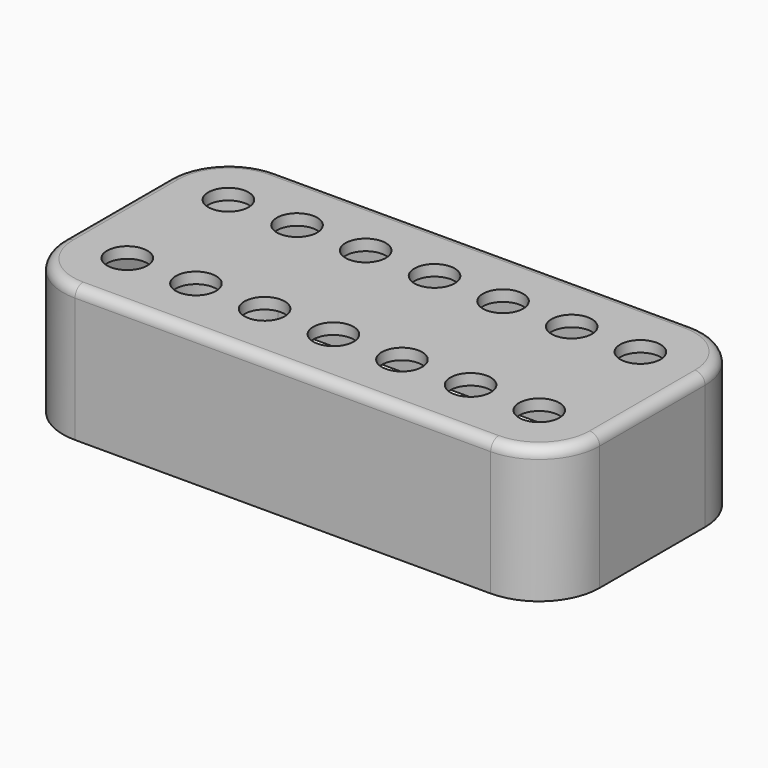
from build123d import *

# Parameters (mm, degrees)
PAD_DEPTH     = 20.07
POCKET_DEPTH  = 18.42
SKETCH002_R   = 3
HOLE_DEPTH    = 25
SKETCH003_R   = 3
HOLE001_DEPTH = 25
SKETCH004_R   = 3
HOLE002_DEPTH = 25
SKETCH005_R   = 3
HOLE003_DEPTH = 25
SKETCH006_R   = 3
HOLE004_DEPTH = 25
SKETCH007_R   = 3
HOLE005_DEPTH = 25
SKETCH008_R   = 3
HOLE006_DEPTH = 25
FILLET_R      = 1.5
SKETCH009_R   = 3
HOLE007_DEPTH = 25
SKETCH010_R   = 3
HOLE008_DEPTH = 25
SKETCH011_R   = 3
HOLE009_DEPTH = 25
SKETCH012_R   = 3
HOLE010_DEPTH = 25
SKETCH013_R   = 3
HOLE011_DEPTH = 25
SKETCH014_R   = 3
HOLE012_DEPTH = 25
SKETCH015_R   = 3
HOLE013_DEPTH = 25


with BuildPart() as part:
    # Sketch → Pad (new body)
    with BuildSketch(Plane.XY):
        with BuildLine():
            Line((26.468666, 48.305671), (88.278666, 48.305671))
            ThreePointArc((97.278666, 39.305671), (94.642627, 45.669632), (88.278666, 48.305671))
            Line((97.278666, 39.305671), (97.278666, 19.715671))
            ThreePointArc((88.278666, 10.715671), (94.642627, 13.351709), (97.278666, 19.715671))
            Line((88.278666, 10.715671), (26.468666, 10.715671))
            ThreePointArc((17.468666, 19.715671), (20.104705, 13.351709), (26.468666, 10.715671))
            Line((17.468666, 19.715671), (17.468666, 39.305671))
            ThreePointArc((26.468666, 48.305671), (20.104705, 45.669632), (17.468666, 39.305671))
        make_face()
    extrude(amount=PAD_DEPTH)

    # Sketch001 (on Face9 of Pad) → Pocket (cut)
    with BuildSketch(Plane(origin=(0, 0, 0), x_dir=(1, 0, 0), z_dir=(0, 0, -1))):
        with BuildLine():
            Line((26.978666, -11.220671), (87.768666, -11.220671))
            ThreePointArc((96.768666, -20.220671), (94.132627, -13.856709), (87.768666, -11.220671))
            Line((96.768666, -20.220671), (96.768666, -38.800671))
            ThreePointArc((87.768666, -47.800671), (94.132627, -45.164632), (96.768666, -38.800671))
            Line((87.768666, -47.800671), (26.978666, -47.800671))
            ThreePointArc((17.978666, -38.800671), (20.614705, -45.164632), (26.978666, -47.800671))
            Line((17.978666, -38.800671), (17.978666, -20.220671))
            ThreePointArc((26.978666, -11.220671), (20.614705, -13.856709), (17.978666, -20.220671))
        make_face()
    extrude(amount=-POCKET_DEPTH, mode=Mode.SUBTRACT)

    # Sketch002 (on Face5 of Pocket) → Hole (cut)
    with BuildSketch(Plane.XY.offset(20.07)):
        with Locations((57.373666, 38.908171)):
            Circle(SKETCH002_R)
    extrude(amount=-HOLE_DEPTH, mode=Mode.SUBTRACT)

    # Sketch003 (on Face5 of Hole) → Hole001 (cut)
    with BuildSketch(Plane.XY.offset(20.07)):
        with Locations((47.135866, 38.908171)):
            Circle(SKETCH003_R)
    extrude(amount=-HOLE001_DEPTH, mode=Mode.SUBTRACT)

    # Sketch004 (on Face5 of Hole001) → Hole002 (cut)
    with BuildSketch(Plane.XY.offset(20.07)):
        with Locations((36.925066, 38.908171)):
            Circle(SKETCH004_R)
    extrude(amount=-HOLE002_DEPTH, mode=Mode.SUBTRACT)

    # Sketch005 (on Face5 of Hole002) → Hole003 (cut)
    with BuildSketch(Plane.XY.offset(20.07)):
        with Locations((26.714266, 38.908171)):
            Circle(SKETCH005_R)
    extrude(amount=-HOLE003_DEPTH, mode=Mode.SUBTRACT)

    # Sketch006 (on Face5 of Hole003) → Hole004 (cut)
    with BuildSketch(Plane.XY.offset(20.07)):
        with Locations((67.557466, 38.908171)):
            Circle(SKETCH006_R)
    extrude(amount=-HOLE004_DEPTH, mode=Mode.SUBTRACT)

    # Sketch007 (on Face5 of Hole004) → Hole005 (cut)
    with BuildSketch(Plane.XY.offset(20.07)):
        with Locations((77.768266, 38.908171)):
            Circle(SKETCH007_R)
    extrude(amount=-HOLE005_DEPTH, mode=Mode.SUBTRACT)

    # Sketch008 (on Face5 of Hole005) → Hole006 (cut)
    with BuildSketch(Plane.XY.offset(20.07)):
        with Locations((87.979066, 38.908171)):
            Circle(SKETCH008_R)
    extrude(amount=-HOLE006_DEPTH, mode=Mode.SUBTRACT)

    # Fillet
    fillet_edges = [part.edges().sort_by_distance(p)[0] for p in [
        (57.373666, 48.305671, 20.07),
    ]]
    fillet(fillet_edges, radius=FILLET_R)

    # Sketch009 (on Face8 of Fillet) → Hole007 (cut)
    with BuildSketch(Plane.XY.offset(20.07)):
        with Locations((57.373666, 20.113171)):
            Circle(SKETCH009_R)
    extrude(amount=-HOLE007_DEPTH, mode=Mode.SUBTRACT)

    # Sketch010 (on Face8 of Hole007) → Hole008 (cut)
    with BuildSketch(Plane.XY.offset(20.07)):
        with Locations((47.135866, 20.113171)):
            Circle(SKETCH010_R)
    extrude(amount=-HOLE008_DEPTH, mode=Mode.SUBTRACT)

    # Sketch011 (on Face8 of Hole008) → Hole009 (cut)
    with BuildSketch(Plane.XY.offset(20.07)):
        with Locations((36.925066, 20.113171)):
            Circle(SKETCH011_R)
    extrude(amount=-HOLE009_DEPTH, mode=Mode.SUBTRACT)

    # Sketch012 (on Face8 of Hole009) → Hole010 (cut)
    with BuildSketch(Plane.XY.offset(20.07)):
        with Locations((26.714266, 20.113171)):
            Circle(SKETCH012_R)
    extrude(amount=-HOLE010_DEPTH, mode=Mode.SUBTRACT)

    # Sketch013 (on Face8 of Hole010) → Hole011 (cut)
    with BuildSketch(Plane.XY.offset(20.07)):
        with Locations((67.557466, 20.113171)):
            Circle(SKETCH013_R)
    extrude(amount=-HOLE011_DEPTH, mode=Mode.SUBTRACT)

    # Sketch014 (on Face8 of Hole011) → Hole012 (cut)
    with BuildSketch(Plane.XY.offset(20.07)):
        with Locations((77.768266, 20.113171)):
            Circle(SKETCH014_R)
    extrude(amount=-HOLE012_DEPTH, mode=Mode.SUBTRACT)

    # Sketch015 (on Face8 of Hole012) → Hole013 (cut)
    with BuildSketch(Plane.XY.offset(20.07)):
        with Locations((87.979066, 20.113171)):
            Circle(SKETCH015_R)
    extrude(amount=-HOLE013_DEPTH, mode=Mode.SUBTRACT)


solid = part.part
